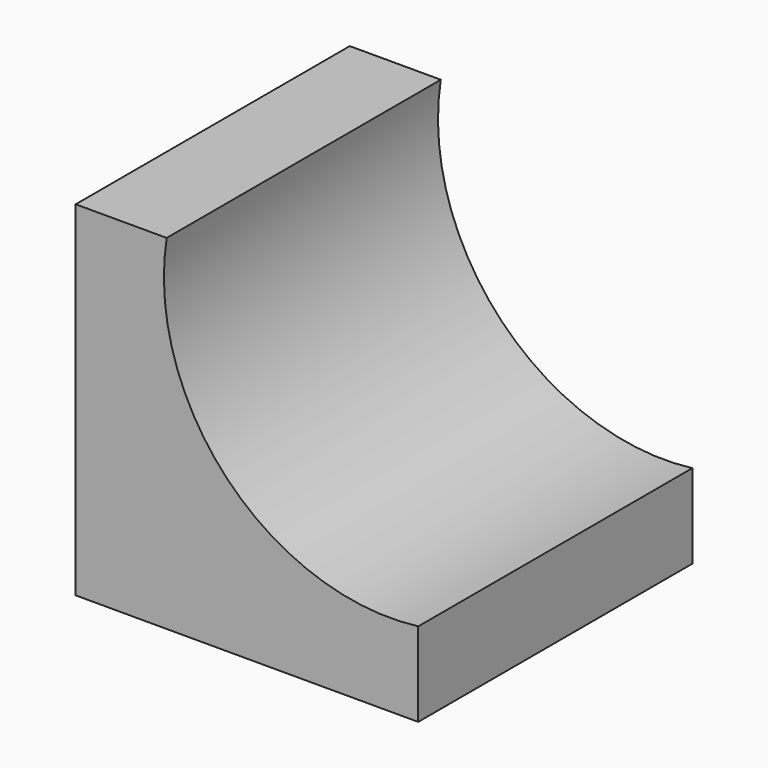
from build123d import *

# Parameters (mm, degrees)
F0_W     = 76.1909112334
F0_H     = 76.5728130937
F1_DEPTH = 76.2
F3_DEPTH = 76.2


with BuildPart() as f1:
    # F0 (on Front) → F1 (new body)
    with BuildSketch(Plane.XZ):
        with Locations((-38.0954556167, 38.2864065468)):
            Rectangle(F0_W, F0_H)
    extrude(amount=F1_DEPTH)

    # F2 (on face) → F3 (cut)
    with BuildSketch(Plane.XZ.offset(76.2)):
        with BuildLine():
            Line((0, 76.5728130937), (-55.9497140348, 76.5728130937))
            ThreePointArc((-55.9497140348, 76.5728130937), (-42.4049925451, 33.6892903324), (0, 18.7135562301))
            Line((0, 18.7135562301), (0, 76.5728130937))
        make_face()
    extrude(amount=-F3_DEPTH, mode=Mode.SUBTRACT)


solid = f1.part
